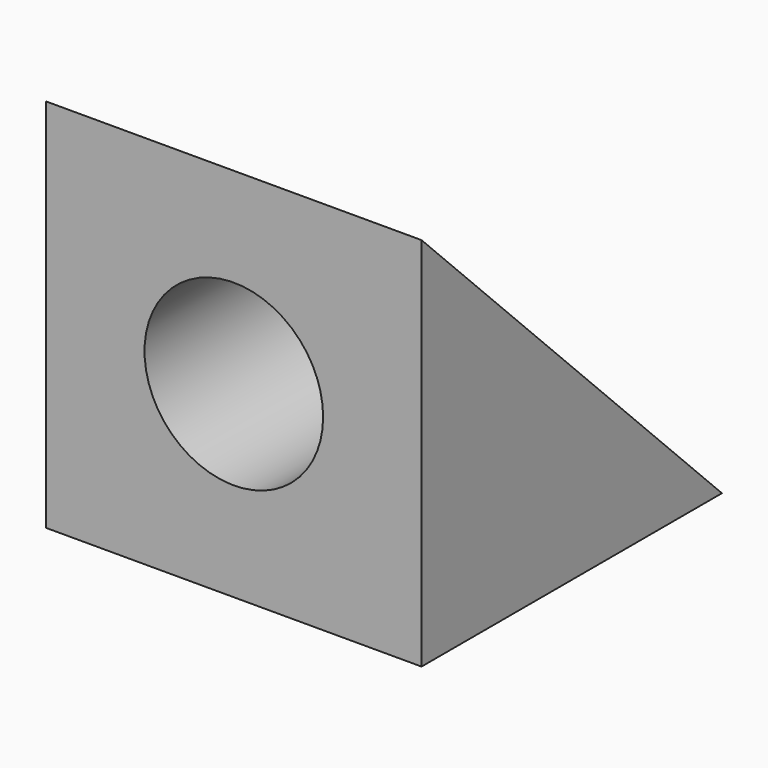
from build123d import *

# Parameters (mm, degrees)
F0_W     = 40.64
F0_H     = 40.64
F0_R     = 9.665554
F1_DEPTH = 40.64
F3_DEPTH = 40.641


with BuildPart() as f1:
    # F0 (on Front) → F1 (new body)
    with BuildSketch(Plane.XZ):
        with Locations((-20.32, 20.32)):
            Rectangle(F0_W, F0_H)
        with Locations((-20.32, 20.32)):
            Circle(F0_R, mode=Mode.SUBTRACT)
    extrude(amount=F1_DEPTH)

    # F2 (on face) → F3 (cut, through all)
    with BuildSketch(Plane.YZ):
        Polygon((0, 40.64), (-40.64, 40.64), (0, 0), align=None)
    extrude(amount=-F3_DEPTH, mode=Mode.SUBTRACT)


solid = f1.part
